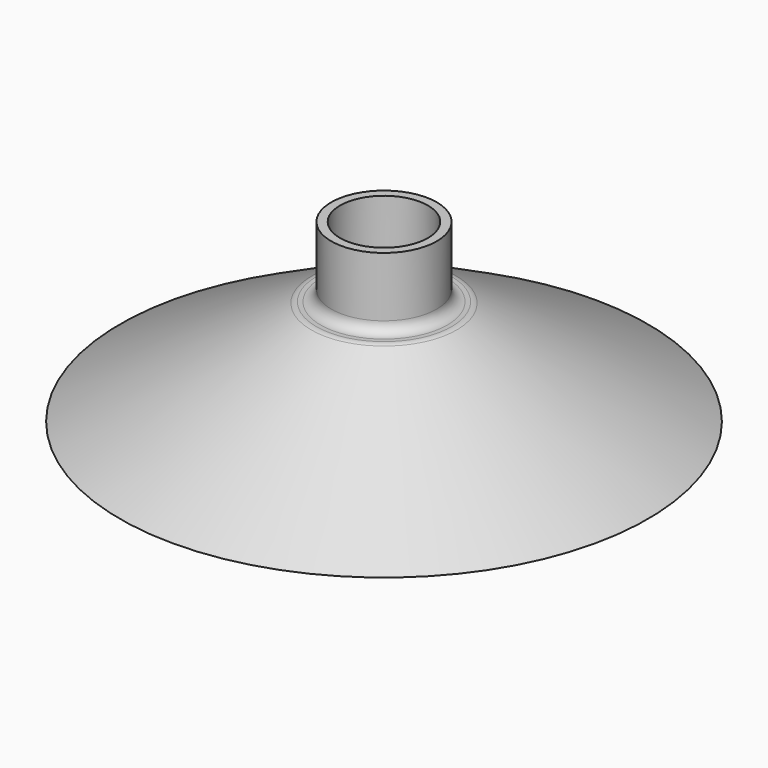
from build123d import *

# Parameters (mm, degrees)
F3_T     = -2.5
F4_R     = 15
F4_R_2   = 12.5
F5_DEPTH = 20
F6_R     = 3


with BuildPart() as f1:
    # F0 (on Right) → F1 (revolve)
    with BuildSketch(Plane.YZ):
        Polygon((0, 0), (0, 30), (-20, 30), (-75, 0), align=None)
    revolve(axis=Axis((0, 0, 15), (0, 0, 1)))

    # F3
    f3_openings = [f1.faces().sort_by_distance(p)[0] for p in [
        (0, 0, 0),
    ]]
    offset(amount=F3_T, openings=f3_openings)

    # F4 (on face) → F5 (join)
    with BuildSketch(Plane.XY.offset(30)):
        Circle(F4_R)
        Circle(F4_R_2, mode=Mode.SUBTRACT)
    extrude(amount=F5_DEPTH)

    # F6
    f6_edges = [f1.edges().sort_by_distance(p)[0] for p in [
        (0, 20, 30),
        (-15, 0, 30),
    ]]
    fillet(f6_edges, radius=F6_R)


solid = f1.part
